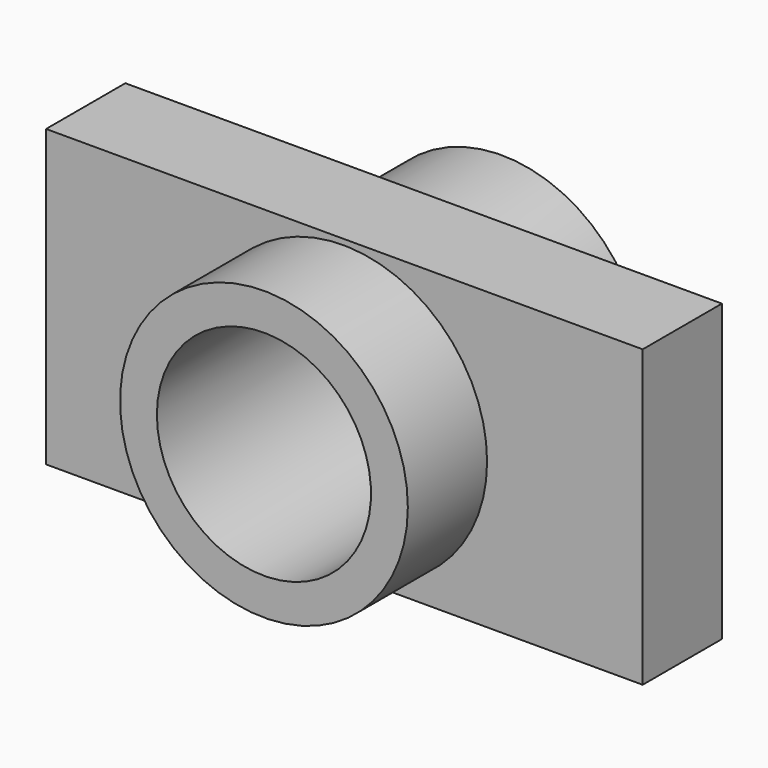
from build123d import *

# Parameters (mm, degrees)
F0_W     = 152.99622
F0_H     = 75.73466
F1_DEPTH = 25.4
F2_R     = 36.900045
F3_DEPTH = 25.4
F4_R     = 36.550704
F5_DEPTH = 25.4
F6_R     = 25.934616
F7_DEPTH = 25.4
F8_R     = 27.454989
F9_DEPTH = 83.312


with BuildPart() as f1:
    # F0 (on Front) → F1 (new body)
    with BuildSketch(Plane.XZ):
        with Locations((0.305381, 0.458073)):
            Rectangle(F0_W, F0_H)
    extrude(amount=F1_DEPTH)

    # F2 (on face) → F3 (join)
    with BuildSketch(Plane.XZ.offset(25.4)):
        Circle(F2_R)
    extrude(amount=F3_DEPTH)

    # F4 (on face) → F5 (join)
    with BuildSketch(Plane(origin=(0, 0, 0), x_dir=(-1, 0, 0), z_dir=(0, 1, 0))):
        Circle(F4_R)
    extrude(amount=F5_DEPTH)

    # F6 (on face) → F7 (cut)
    with BuildSketch(Plane.XZ.offset(50.8)):
        Circle(F6_R)
    extrude(amount=-F7_DEPTH, mode=Mode.SUBTRACT)

    # F8 (on face) → F9 (cut)
    with BuildSketch(Plane(origin=(0, 25.4, 0), x_dir=(-1, 0, 0), z_dir=(0, 1, 0))):
        Circle(F8_R)
    extrude(amount=-F9_DEPTH, mode=Mode.SUBTRACT)


solid = f1.part
